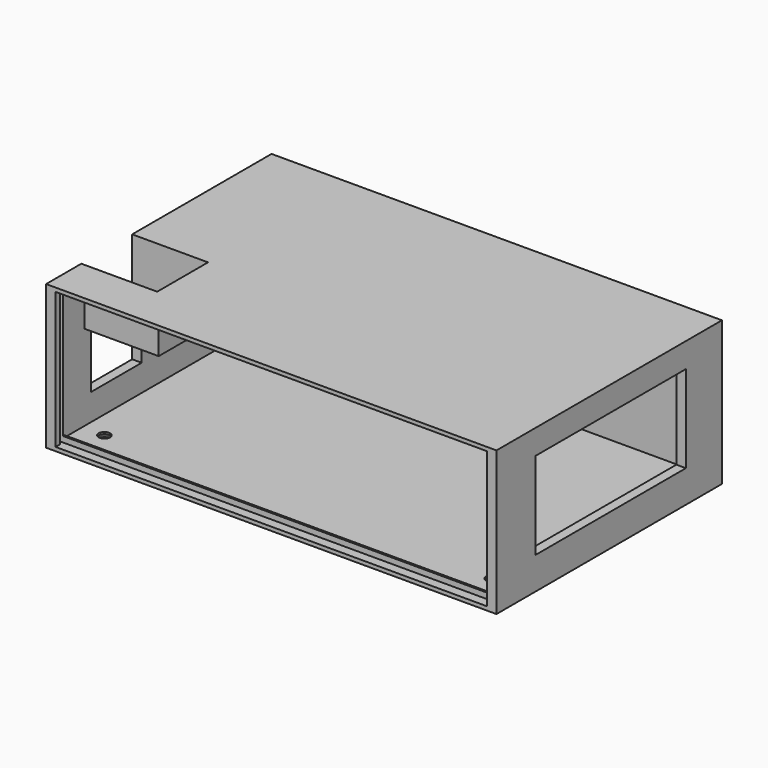
from build123d import *

# Parameters (mm, degrees)
F0_W            = 113.76
F0_H            = 69.31
F0_R            = 3
F0_R_2          = 1.5
F1_DEPTH        = 2
F0_W_2          = 118.76
F0_H_2          = 74.31
F2_DEPTH        = 38
F3_W            = 49.53
F3_H            = 23
F4_DEPTH        = 2.5
F5_W            = 16.76
F5_H            = 29
F6_DEPTH        = 2.5
F8_DEPTH        = 2.5
F9_W            = 19.5
F9_H            = 11
F10_DEPTH       = 2
F11_W           = 19.5
F11_H           = 11
F12_DEPTH       = 2
F13_W           = 16.76
F13_H           = 13.5
F14_DEPTH       = 2
F15_W           = 113.76
F15_H           = 33
F16_DEPTH       = 3
F17_W           = 113.76
F17_H           = 1.5
F18_DEPTH       = 2.5
F20_DEPTH       = 1
F22_DEPTH       = 1
F23_D           = 3
F23_DEPTH       = 5
F23_CSINK_D     = 6
F23_CSINK_ANGLE = 90
F23_TIP         = 0.9012909285


with BuildPart() as f1:
    # F0 (on Top) → F1 (new body)
    with BuildSketch(Plane.XY):
        with Locations((55.88, 33.655)):
            Rectangle(F0_W, F0_H)
        with Locations((4.82, 4.82)):
            Circle(F0_R, mode=Mode.SUBTRACT)
        with Locations((106.94, 4.82)):
            Circle(F0_R, mode=Mode.SUBTRACT)
        with Locations((4.82, 62.49)):
            Circle(F0_R, mode=Mode.SUBTRACT)
        with Locations((106.94, 62.49)):
            Circle(F0_R, mode=Mode.SUBTRACT)
        with Locations((106.94, 62.49)):
            Circle(F0_R)
        with Locations((106.94, 62.49)):
            Circle(F0_R_2, mode=Mode.SUBTRACT)
        with Locations((106.94, 62.49)):
            Circle(F0_R_2)
        with Locations((106.94, 4.82)):
            Circle(F0_R)
        with Locations((106.94, 4.82)):
            Circle(F0_R_2, mode=Mode.SUBTRACT)
        with Locations((106.94, 4.82)):
            Circle(F0_R_2)
        with Locations((4.82, 4.82)):
            Circle(F0_R)
        with Locations((4.82, 4.82)):
            Circle(F0_R_2, mode=Mode.SUBTRACT)
        with Locations((4.82, 4.82)):
            Circle(F0_R_2)
        with Locations((4.82, 62.49)):
            Circle(F0_R)
        with Locations((4.82, 62.49)):
            Circle(F0_R_2, mode=Mode.SUBTRACT)
        with Locations((4.82, 62.49)):
            Circle(F0_R_2)
    extrude(amount=F1_DEPTH)

    # F0 (on Top) → F2 (join)
    with BuildSketch(Plane.XY):
        with Locations((55.88, 33.155)):
            Rectangle(F0_W_2, F0_H_2)
        with Locations((55.88, 33.655)):
            Rectangle(F0_W, F0_H, mode=Mode.SUBTRACT)
    extrude(amount=F2_DEPTH)

    # F3 (on face) → F4 (cut, through all)
    with BuildSketch(Plane.YZ.offset(115.26)):
        with Locations((33.655, 20)):
            Rectangle(F3_W, F3_H)
    extrude(amount=-F4_DEPTH, mode=Mode.SUBTRACT)

    # F5 (on face) → F6 (cut, through all)
    with BuildSketch(Plane(origin=(-3.5, 0, 0), x_dir=(0, -1, 0), z_dir=(-1, 0, 0))):
        with Locations((-16, 23.5)):
            Rectangle(F5_W, F5_H)
    extrude(amount=-F6_DEPTH, mode=Mode.SUBTRACT)

    # F7 (on face) → F8 (join)
    with BuildSketch(Plane.XY.offset(38)):
        Polygon((-1, 7.62), (-1, -1), (112.76, -1), (112.76, 68.31), (-1, 68.31), (-1, 24.38), (18.5, 24.38), (18.5, 7.62), align=None)
    extrude(amount=-F8_DEPTH)

    # F9 (on face) → F10 (join)
    with BuildSketch(Plane.XZ.offset(-24.38)):
        with Locations((8.75, 30)):
            Rectangle(F9_W, F9_H)
    extrude(amount=-F10_DEPTH)

    # F11 (on face) → F12 (join)
    with BuildSketch(Plane(origin=(0, 7.62, 0), x_dir=(-1, 0, 0), z_dir=(0, 1, 0))):
        with Locations((-8.75, 30)):
            Rectangle(F11_W, F11_H)
    extrude(amount=-F12_DEPTH)

    # F13 (on face) → F14 (join)
    with BuildSketch(Plane(origin=(18.5, 0, 0), x_dir=(0, -1, 0), z_dir=(-1, 0, 0))):
        with Locations((-16, 31.25)):
            Rectangle(F13_W, F13_H)
    extrude(amount=F14_DEPTH)

    # F15 (on face) → F16 (cut, through all)
    with BuildSketch(Plane.XZ.offset(4)):
        with Locations((55.88, 19)):
            Rectangle(F15_W, F15_H)
    extrude(amount=-F16_DEPTH, mode=Mode.SUBTRACT)

    # F17 (on face) → F18 (cut)
    with BuildSketch(Plane.XZ.offset(4)):
        with Locations((55.88, 36.25)):
            Rectangle(F17_W, F17_H)
        with Locations((55.88, 1.75)):
            Rectangle(F17_W, F17_H)
    extrude(amount=-F18_DEPTH, mode=Mode.SUBTRACT)

    # F19 (on face) → F20 (cut)
    with BuildSketch(Plane.YZ.offset(-1)):
        Polygon((-1.5, 35.5), (-1.5, 37), (-2.5, 37), (-2.5, 1), (-1.5, 1), (-1.5, 2.5), align=None)
    extrude(amount=-F20_DEPTH, mode=Mode.SUBTRACT)

    # F21 (on face) → F22 (cut)
    with BuildSketch(Plane(origin=(112.76, 0, 0), x_dir=(0, -1, 0), z_dir=(-1, 0, 0))):
        Polygon((2.5, 37), (1.5, 37), (1.5, 35.5), (1.5, 2.5), (1.5, 1), (2.5, 1), align=None)
    extrude(amount=-F22_DEPTH, mode=Mode.SUBTRACT)

    # F23
    with Locations(Plane(origin=(0, 0, 0), x_dir=(1, 0, 0), z_dir=(0, 0, -1))):
        with Locations((4.82, -4.82), (106.94, -4.82), (106.94, -62.49), (4.82, -62.49)):
            CounterSinkHole(F23_D / 2, F23_CSINK_D / 2, depth=F23_DEPTH, counter_sink_angle=F23_CSINK_ANGLE)
            with Locations((0, 0, -(F23_DEPTH + F23_TIP / 2))):  # 118° drill point
                Cone(0, F23_D / 2, F23_TIP, mode=Mode.SUBTRACT)


solid = f1.part
